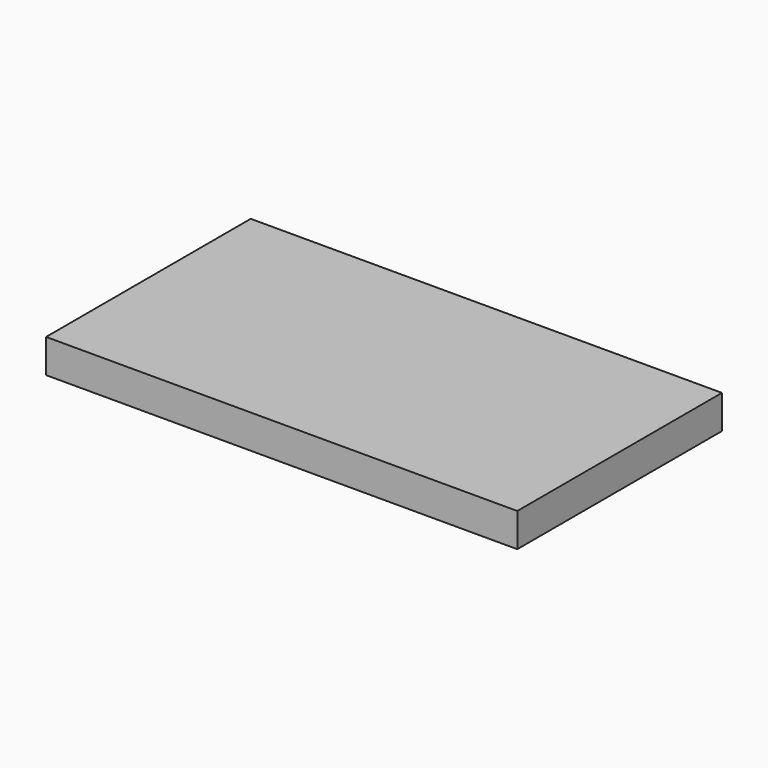
from build123d import *

# Parameters (mm, degrees)
SKETCH033_W   = 68
SKETCH033_H   = 36
PAD021_DEPTH  = 1
SKETCH034_W   = 68
SKETCH034_H   = 36
SKETCH034_W_2 = 66
SKETCH034_H_2 = 34
PAD022_DEPTH  = 3
SKETCH036_R   = 1.5
PAD024_DEPTH  = 3
BOX001_W      = 70
BOX001_H      = 38
BOX001_DEPTH  = 5


with BuildPart() as bottommold:
    # Sketch033 → Pad021 (new body)
    with BuildSketch(Plane.XY):
        Rectangle(SKETCH033_W, SKETCH033_H)
    extrude(amount=PAD021_DEPTH)

    # Sketch034 (on Face6 of Pad021) → Pad022 (join)
    with BuildSketch(Plane.XY.offset(1)):
        Rectangle(SKETCH034_W, SKETCH034_H)
        Rectangle(SKETCH034_W_2, SKETCH034_H_2, mode=Mode.SUBTRACT)
    extrude(amount=PAD022_DEPTH)

    # Sketch036 → Pad024 (join)
    with BuildSketch(Plane.XY.offset(1)):
        with Locations((-31, 15)):
            Circle(SKETCH036_R)
        with Locations((31, 15)):
            Circle(SKETCH036_R)
        with Locations((-31, -15)):
            Circle(SKETCH036_R)
        with Locations((31, -15)):
            Circle(SKETCH036_R)
    extrude(amount=PAD024_DEPTH)


with BuildPart() as bottommold_1:
    # Body007 placement: moved
    add(bottommold.part.moved(Location((100, 78, 0))))


with BuildPart() as bottom_mold:
    # Box001 → Box001 (new body)
    with BuildSketch(Plane(origin=(65, 59, 0), x_dir=(1, 0, 0), z_dir=(0, 0, 1))):
        with Locations((35, 19)):
            Rectangle(BOX001_W, BOX001_H)
    extrude(amount=BOX001_DEPTH)

    # Cut001: cut BottomMold
    add(bottommold_1.part, mode=Mode.SUBTRACT)


solid = bottom_mold.part
